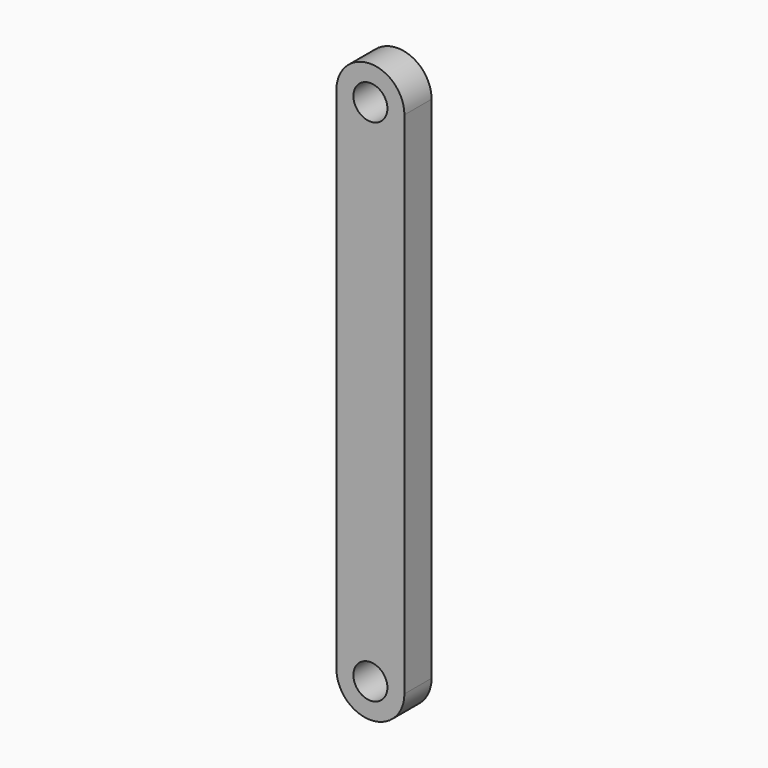
from build123d import *

# Parameters (mm, degrees)
F0_R     = 3.175
F1_DEPTH = 3.175


with BuildPart() as f1:
    # F0 (on Front) → F1 (new body, symmetric)
    with BuildSketch(Plane.XZ):
        with BuildLine():
            ThreePointArc((6.35, -1e-06), (0, 6.35), (-6.35, -1e-06))
            Line((-6.35, -1e-06), (-6.35, -95.25))
            ThreePointArc((-6.35, -95.25), (0, -101.6), (6.35, -95.25))
            Line((6.35, -95.25), (6.35, -1e-06))
        make_face()
        with Locations((0, -95.25)):
            Circle(F0_R, mode=Mode.SUBTRACT)
        Circle(F0_R, mode=Mode.SUBTRACT)
    extrude(amount=F1_DEPTH, both=True)


solid = f1.part
